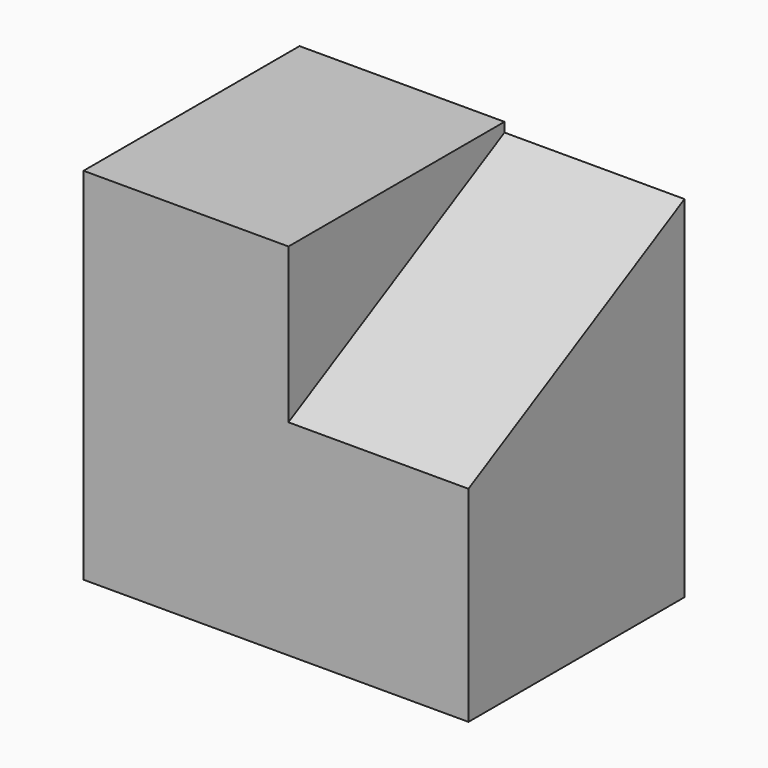
from build123d import *

# Parameters (mm, degrees)
F0_W     = 108.6415843582
F0_H     = 101.6
F1_DEPTH = 76.2
F2_W     = 76.2
F2_H     = 43.6811229765
F3_DEPTH = 50.8
F5_DEPTH = 50.8


with BuildPart() as f1:
    # F0 (on Front) → F1 (new body)
    with BuildSketch(Plane.XZ):
        with Locations((2.785647288, -7.1188770235)):
            Rectangle(F0_W, F0_H)
    extrude(amount=F1_DEPTH)

    # F2 (on face) → F3 (cut)
    with BuildSketch(Plane.YZ.offset(57.1064394671)):
        with Locations((-38.1, 21.8405614883)):
            Rectangle(F2_W, F2_H)
    extrude(amount=-F3_DEPTH, mode=Mode.SUBTRACT)

    # F4 (on face) → F5 (join)
    with BuildSketch(Plane.YZ.offset(6.3064394671)):
        Polygon((0, 0), (0, 41.0109274089), (-76.2, 0), align=None)
    extrude(amount=F5_DEPTH)


solid = f1.part
